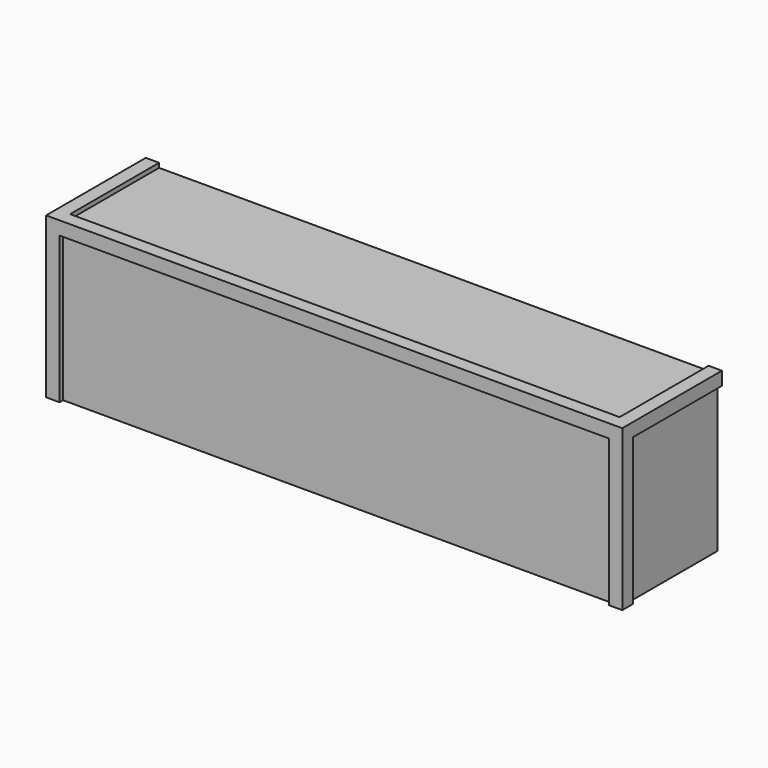
from build123d import *

# Parameters (mm, degrees)
F0_W      = 822.325
F0_H      = 177.8
F1_DEPTH  = 228.6
F2_T      = -19.05
F3_W      = 784.225
F3_H      = 209.55
F4_DEPTH  = 6.35
F5_W      = 158.75
F5_H      = 209.55
F6_DEPTH  = 6.35
F7_W      = 158.75
F7_H      = 209.55
F8_DEPTH  = 6.35
F9_W      = 784.225
F9_H      = 158.75
F10_DEPTH = 6.35


with BuildPart() as f1:
    # F0 (on Top) → F1 (new body)
    with BuildSketch(Plane.XY):
        Rectangle(F0_W, F0_H)
    extrude(amount=F1_DEPTH)

    # F2
    f2_openings = [f1.faces().sort_by_distance(p)[0] for p in [
        (0, 0, 0),
    ]]
    offset(amount=F2_T, openings=f2_openings)

    # F3 (on face) → F4 (cut)
    with BuildSketch(Plane.XZ.offset(88.9)):
        with Locations((0.143385, 104.775)):
            Rectangle(F3_W, F3_H)
    extrude(amount=-F4_DEPTH, mode=Mode.SUBTRACT)

    # F5 (on face) → F6 (cut)
    with BuildSketch(Plane(origin=(-411.1625, 0, 0), x_dir=(0, -1, 0), z_dir=(-1, 0, 0))):
        with Locations((-9.525, 104.775)):
            Rectangle(F5_W, F5_H)
    extrude(amount=-F6_DEPTH, mode=Mode.SUBTRACT)

    # F7 (on face) → F8 (cut)
    with BuildSketch(Plane.YZ.offset(411.1625)):
        with Locations((9.525, 104.775)):
            Rectangle(F7_W, F7_H)
    extrude(amount=-F8_DEPTH, mode=Mode.SUBTRACT)

    # F9 (on face) → F10 (cut)
    with BuildSketch(Plane.XY.offset(228.6)):
        with Locations((0, 9.525)):
            Rectangle(F9_W, F9_H)
    extrude(amount=-F10_DEPTH, mode=Mode.SUBTRACT)


solid = f1.part
